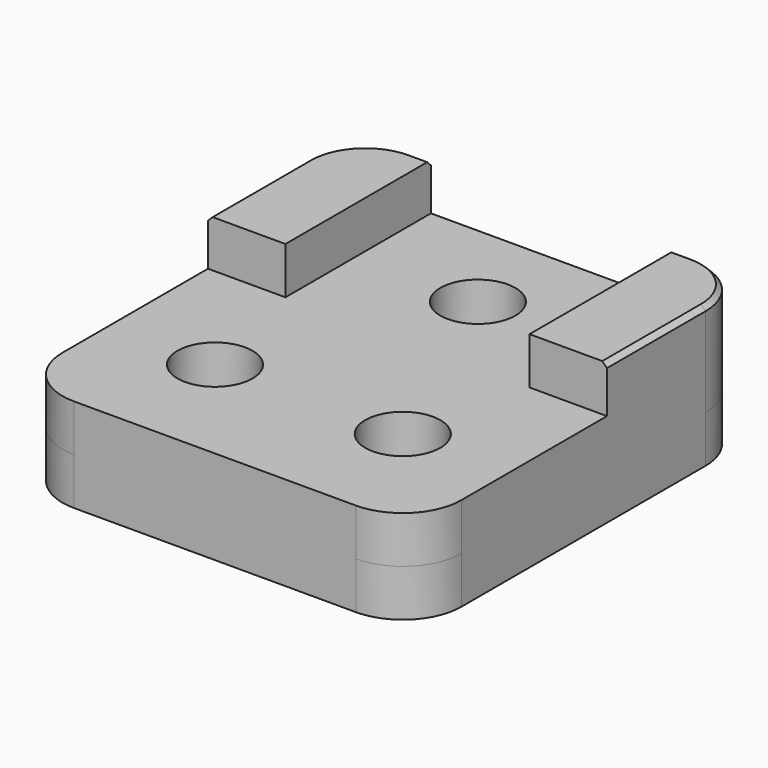
from build123d import *

# Parameters (mm, degrees)
SKETCH_W      = 34
SKETCH_H      = 36
SKETCH_R      = 3.2
PAD_DEPTH     = 4
SKETCH001_W   = 6.7
SKETCH001_H   = 15.5
PAD001_DEPTH  = 4
FILLET_R      = 5
SKETCH002_R   = 3.2
SKETCH002_R_2 = 6
PAD002_DEPTH  = 4
SKETCH003_R   = 3.2
PAD003_DEPTH  = 0.6
SKETCH004_W   = 20.8
SKETCH004_H   = 19.619243
POCKET_DEPTH  = 4
CHAMFER_SIZE  = 0.4


with BuildPart() as part:
    # Sketch → Pad (new body)
    with BuildSketch(Plane.XY):
        with Locations((-17, 18)):
            Rectangle(SKETCH_W, SKETCH_H)
        with Locations((-17, 28)):
            Circle(SKETCH_R, mode=Mode.SUBTRACT)
        with Locations((-25, 10)):
            Circle(SKETCH_R, mode=Mode.SUBTRACT)
        with Locations((-9, 10)):
            Circle(SKETCH_R, mode=Mode.SUBTRACT)
    extrude(amount=PAD_DEPTH)

    # Sketch001 → Pad001 (new body)
    with BuildSketch(Plane.XY.offset(4)):
        with Locations((-30.65, 28.25)):
            Rectangle(SKETCH001_W, SKETCH001_H)
        with Locations((-3.35, 28.25)):
            Rectangle(SKETCH001_W, SKETCH001_H)
    extrude(amount=PAD001_DEPTH)

    # Fillet
    fillet_edges = [part.edges().sort_by_distance(p)[0] for p in [
        (-34, 0, 2),
        (0, 0, 2),
        (0, 36, 2),
        (0, 36, 6),
        (-34, 36, 6),
        (-34, 36, 2),
    ]]
    fillet(fillet_edges, radius=FILLET_R)

    # Sketch002 → Pad002 (new body)
    with BuildSketch(Plane(origin=(0, 0, 0), x_dir=(1, 0, 0), z_dir=(0, 0, -1))):
        with BuildLine():
            Line((-5, 0), (-29, 0))
            ThreePointArc((-29, 0), (-32.535534, -1.464466), (-34, -5))
            Line((-34, -5), (-34, -31))
            ThreePointArc((-34, -31), (-32.535534, -34.535534), (-29, -36))
            Line((-29, -36), (-5, -36))
            ThreePointArc((-5, -36), (-1.464466, -34.535534), (0, -31))
            Line((0, -31), (0, -5))
            ThreePointArc((0, -5), (-1.464466, -1.464466), (-5, 0))
        make_face()
        with Locations((-17, -28)):
            Circle(SKETCH002_R, mode=Mode.SUBTRACT)
        with Locations((-25, -10)):
            Circle(SKETCH002_R_2, mode=Mode.SUBTRACT)
        with Locations((-9, -10)):
            Circle(SKETCH002_R_2, mode=Mode.SUBTRACT)
    extrude(amount=PAD002_DEPTH)

    # Sketch003 → Pad003 (new body)
    with BuildSketch(Plane(origin=(0, 0, 0), x_dir=(1, 0, 0), z_dir=(0, 0, -1))):
        with Locations((-25, -10)):
            Circle(SKETCH003_R)
        with Locations((-9, -10)):
            Circle(SKETCH003_R)
    extrude(amount=-PAD003_DEPTH)

    # Sketch004 → Pocket (cut)
    with BuildSketch(Plane.XY.offset(4)):
        with Locations((-17, 28.145761)):
            Rectangle(SKETCH004_W, SKETCH004_H)
    extrude(amount=POCKET_DEPTH, mode=Mode.SUBTRACT)

    # Chamfer
    chamfer_edges = [part.edges().sort_by_distance(p)[0] for p in [
        (0, 25.75, 8),
        (-1.464466, 34.535534, 8),
        (-5.8, 36, 8),
        (-28.2, 36, 8),
        (-32.535534, 34.535534, 8),
        (-34, 25.75, 8),
    ]]
    chamfer(chamfer_edges, length=CHAMFER_SIZE)


solid = part.part
